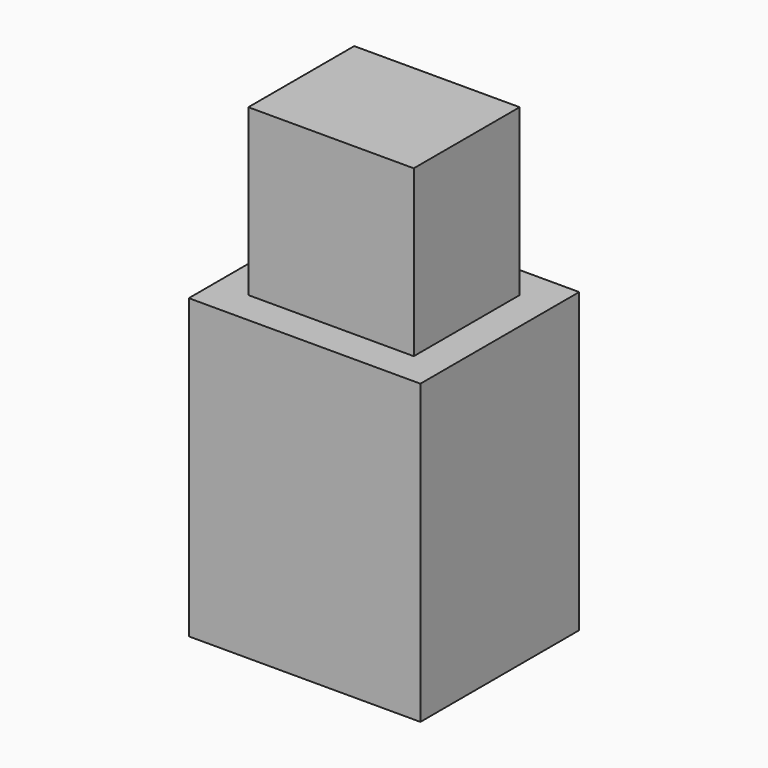
from build123d import *

# Parameters (mm, degrees)
F0_W     = 3.5
F0_H     = 3
F1_DEPTH = 4.5
F2_W     = 2.5
F2_H     = 2
F3_DEPTH = 7


with BuildPart() as f1:
    # F0 (on Top) → F1 (new body)
    with BuildSketch(Plane.XY):
        Rectangle(F0_W, F0_H)
    extrude(amount=F1_DEPTH)

    # F2 (on face) → F3 (join)
    with BuildSketch(Plane.XY):
        Rectangle(F2_W, F2_H)
    extrude(amount=F3_DEPTH)


solid = f1.part
